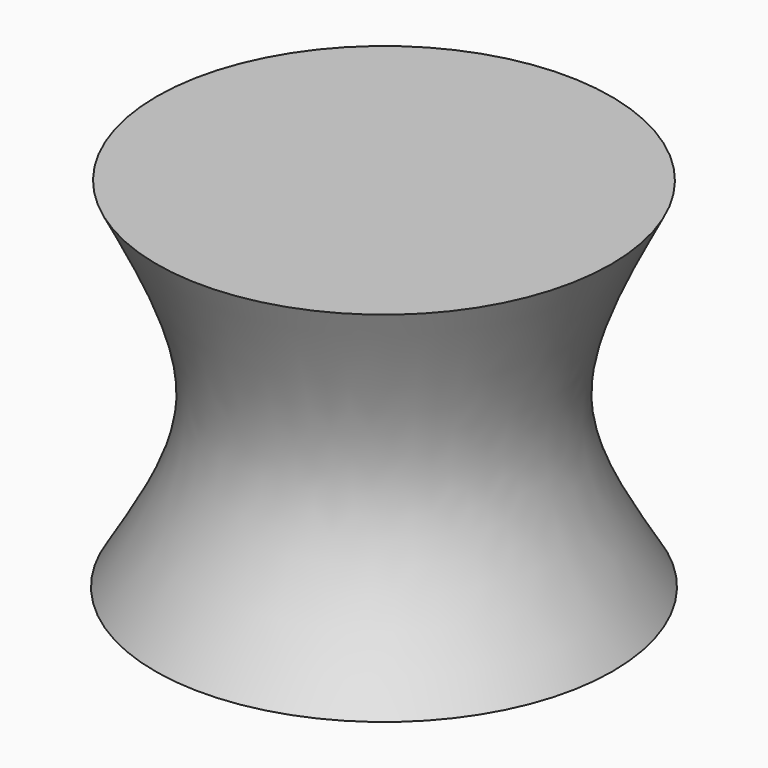
from build123d import *


with BuildPart() as f1:
    # F0 (on Front) → F1 (revolve)
    with BuildSketch(Plane.XZ):
        with BuildLine():
            Line((0, 35.7203446329), (0, 0))
            Line((0, 0), (22.8487160057, 0))
            add(Edge.make_bspline(
                [(22.6891953498, 35.7203446329), (19.3461656876, 29.162618889), (12.8770854162, 16.4727960272), (19.6000034798, 5.3667630694), (22.8487160057, 0)],
                knots=[0, 0, 0, 0, 0.5167704715, 1, 1, 1, 1], degree=3))
            Line((22.6891953498, 35.7203446329), (0, 35.7203446329))
        make_face()
    revolve(axis=Axis((0, 0, 17.8601723164), (0, 0, -1)))


solid = f1.part
